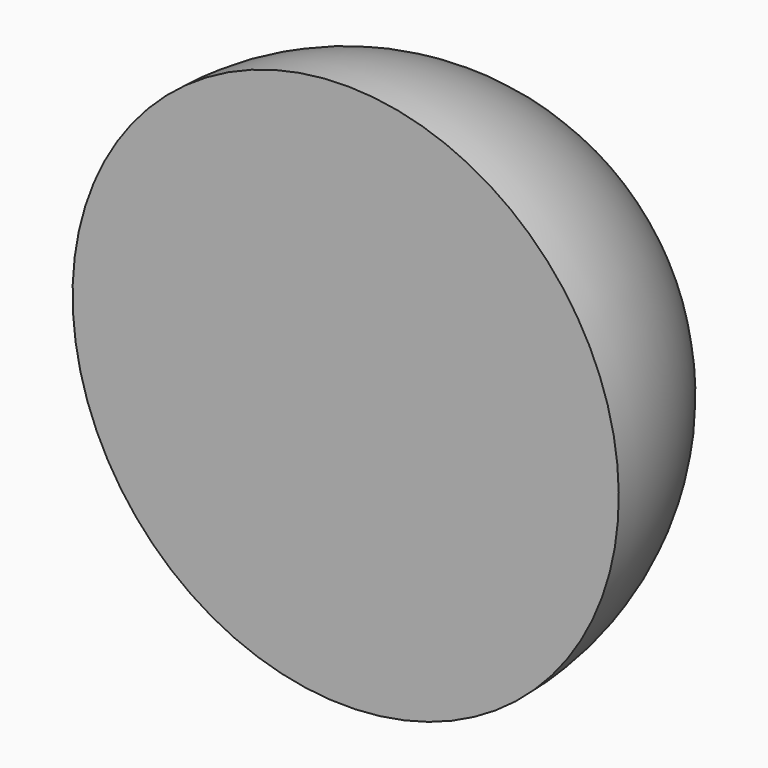
from build123d import *

# Parameters (mm, degrees)
BOX166_W           = 10
BOX166_H           = 10
BOX166_DEPTH       = 10
CUT082_ROLL_ANGLE  = -90
CUT082_PITCH_ANGLE = -32


with BuildPart() as cube011:
    # Box166 → Box166 (new body)
    with BuildSketch(Plane(origin=(-5, -5, -10), x_dir=(1, 0, 0), z_dir=(0, 0, 1))):
        with Locations((5, 5)):
            Rectangle(BOX166_W, BOX166_H)
    extrude(amount=BOX166_DEPTH)


with BuildPart() as sapphire_half_ball_lens011:
    # Sphere011 → Sphere011 (revolve)
    with BuildSketch(Plane.XZ):
        with BuildLine():
            ThreePointArc((0, -2), (2, 0), (0, 2))
            Line((0, 2), (0, -2))
        make_face()
    revolve(axis=Axis((0, 0, 0), (0, 0, 1)))

    # Cut082: cut Cube011
    add(cube011.part, mode=Mode.SUBTRACT)


with BuildPart() as sapphire_half_ball_lens011_1:
    # Cut082 roll: moved
    add(sapphire_half_ball_lens011.part.rotate(Axis((0, 0, 0), (1, 0, 0)), CUT082_ROLL_ANGLE))


with BuildPart() as sapphire_half_ball_lens011_2:
    # Cut082 pitch: moved
    add(sapphire_half_ball_lens011_1.part.rotate(Axis((0, 0, 0), (0, 1, 0)), CUT082_PITCH_ANGLE))


with BuildPart() as sapphire_half_ball_lens011_3:
    # Cut082 placement: moved
    add(sapphire_half_ball_lens011_2.part.moved(Location((9.3, 3.89, 45.12))))


solid = sapphire_half_ball_lens011_3.part
